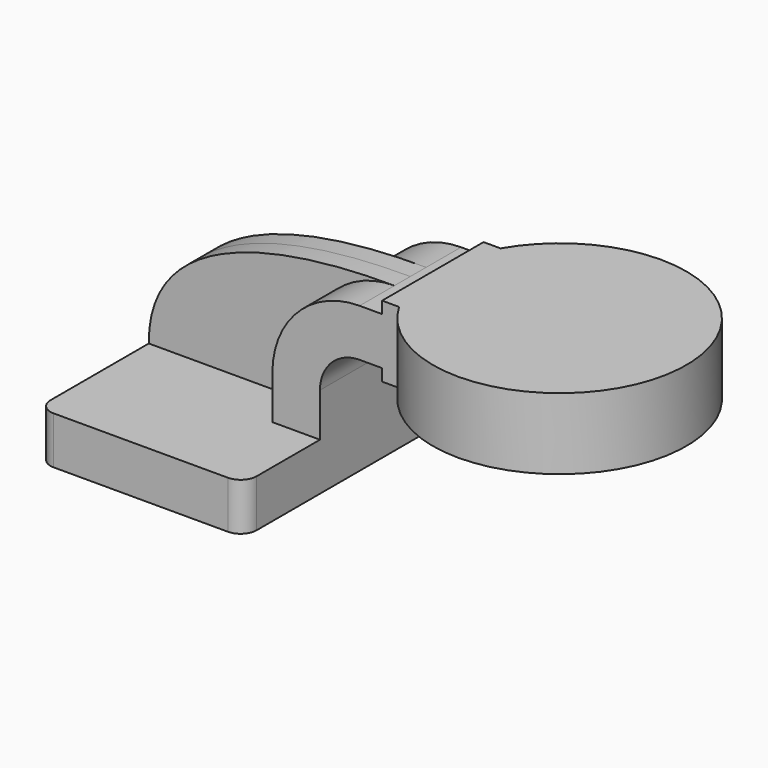
from build123d import *

# Parameters (mm, degrees)
F1_DEPTH = 63.5
F2_DEPTH = 25.4
F3_DEPTH = 7.9375
F5_R     = 6.35


with BuildPart() as f1:
    # F0 (on Front) → F1 (new body, symmetric)
    with BuildSketch(Plane.XZ):
        Polygon((41.275, -9.525), (41.275, 9.525), (22.225, 9.525), (-41.275, 9.525), (-41.275, -9.525), align=None)
    extrude(amount=F1_DEPTH, both=True)

    # F0 (on Front) → F2 (join, symmetric)
    with BuildSketch(Plane.XZ):
        with BuildLine():
            Line((22.225, 9.525), (41.275, 9.525))
            Line((41.275, 9.525), (41.275, 27.0002))
            ThreePointArc((41.275, 27.0002), (45.92468, 38.22552), (57.15, 42.8752))
            Line((57.15, 42.8752), (66.177751, 42.8752))
            Line((66.177751, 42.8752), (66.177751, 61.9252))
            Line((66.177751, 61.9252), (57.15, 61.9252))
            ThreePointArc((57.15, 61.9252), (32.454296, 51.695904), (22.225, 27.0002))
            Line((22.225, 27.0002), (22.225, 9.525))
        make_face()
        Polygon((66.177751, 61.9252), (66.177751, 42.8752), (66.177751, 38.1), (116.977751, 38.1), (116.977751, 66.675), (66.177751, 66.675), align=None)
    extrude(amount=F2_DEPTH, both=True)

    # F0 (on Front) → F3 (join, symmetric)
    with BuildSketch(Plane.XZ):
        with BuildLine():
            Line((-41.275, 9.525), (22.225, 9.525))
            Line((22.225, 9.525), (22.225, 27.0002))
            ThreePointArc((22.225, 27.0002), (32.454296, 51.695904), (57.15, 61.9252))
            add(Edge.make_bspline(
                [(-41.275, 9.525), (-41.624442, 50.289135), (7.305516, 62.18183), (57.15, 61.9252)],
                knots=[0, 0, 0, 0, 111.504536, 111.504536, 111.504536, 111.504536], degree=3))
        make_face()
    extrude(amount=F3_DEPTH, both=True)

    # F0 (on Front) → F4 (revolve)
    with BuildSketch(Plane.XZ):
        Polygon((66.177751, 61.9252), (66.177751, 42.8752), (66.177751, 38.1), (116.977751, 38.1), (116.977751, 66.675), (66.177751, 66.675), align=None)
    revolve(axis=Axis((116.977751, 0, 52.3875), (0, 0, 1)))

    # F5
    f5_edges = [f1.edges().sort_by_distance(p)[0] for p in [
        (41.275, 63.5, 0),
        (41.275, -63.5, 0),
        (-41.275, -63.5, 0),
        (-41.275, 63.5, 0),
    ]]
    fillet(f5_edges, radius=F5_R)


solid = f1.part
